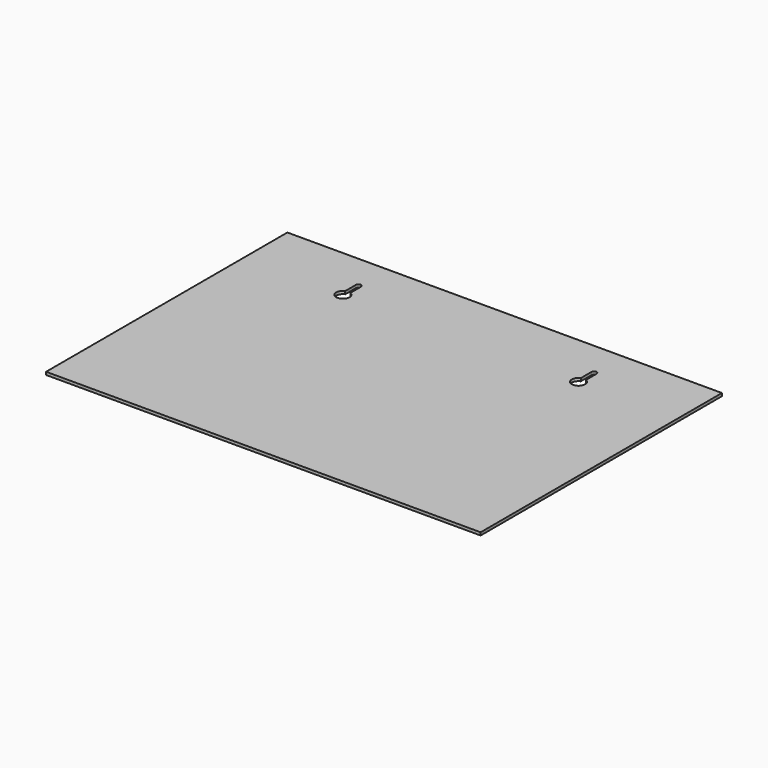
from build123d import *

# Parameters (mm, degrees)
F1_DEPTH = 3.556


with BuildPart() as f1:
    # F0 (on Top) → F1 (new body)
    with BuildSketch(Plane.XY):
        Polygon((0, 374.65), (0, 0), (539.75, 0), (539.75, 374.65), (416.483468, 374.65), (123.825, 374.65), align=None)
        with BuildLine():
            ThreePointArc((120.653815, 330.36432), (121.635642, 332.508135), (123.825, 333.383715))
            ThreePointArc((123.825, 333.383715), (126.070064, 332.453779), (127, 330.208715))
            Line((127, 330.208715), (127, 313.663327))
            ThreePointArc((127, 313.663327), (123.822934, 297.788327), (120.653815, 313.664915))
            Line((120.653815, 313.664915), (120.653815, 330.05311))
            ThreePointArc((120.653815, 330.05311), (120.65, 330.208715), (120.653815, 330.36432))
        make_face(mode=Mode.SUBTRACT)
        with BuildLine():
            ThreePointArc((413.311554, 330.348675), (414.288445, 332.502729), (416.483468, 333.383715))
            ThreePointArc((416.483468, 333.383715), (418.708128, 332.473999), (419.657948, 330.266165))
            ThreePointArc((419.657948, 330.266165), (419.658468, 330.208715), (419.657948, 330.151265))
            Line((419.657948, 330.151265), (419.657948, 313.663543))
            ThreePointArc((419.657948, 313.663543), (416.482078, 297.788327), (413.311554, 313.664612))
            Line((413.311554, 313.664612), (413.311554, 330.068754))
            ThreePointArc((413.311554, 330.068754), (413.308468, 330.208715), (413.311554, 330.348675))
        make_face(mode=Mode.SUBTRACT)
    extrude(amount=F1_DEPTH)


solid = f1.part
